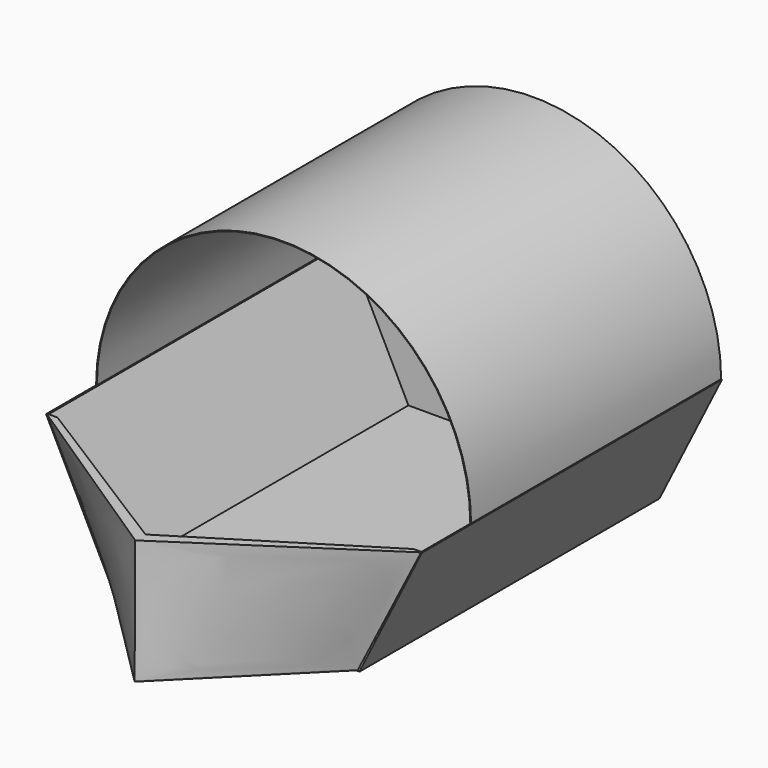
from build123d import *

# Parameters (mm, degrees)
F0_W           = 152.4
F0_H           = 152.4
F1_DEPTH       = 63.5
F3_DEPTH       = 63.17996
F4_DEPTH       = 12.7
F6_DEPTH       = 609.6
F7_W           = 152.4
F7_H           = 56.7961266285
F8_DEPTH       = 0.16002
F8_DEPTH_BACK  = 0.16002
F9_W           = 152.4
F9_H           = 56.7961266285
F10_DEPTH      = 0.16002
F10_DEPTH_BACK = 0.16002
F12_DEPTH      = 0.32004
F19_DEPTH      = 127
F24_D          = 9.525
F24_DEPTH      = 38.1
F24_TIP        = 2.8615986981
F26_DEPTH      = 25.4


with BuildPart() as f1:
    # F0 (on Top) → F1 (new body)
    with BuildSketch(Plane.XY):
        with Locations((22.6197618335, 8.0124375336)):
            Rectangle(F0_W, F0_H)
    extrude(amount=F1_DEPTH)

    # F2 (on face) → F3 (cut)
    with BuildSketch(Plane.XY.offset(63.5)):
        Polygon((22.6197618335, 83.8923975336), (-53.2601981665, 83.8923975336), (-53.2601981665, -0.1986662101), (-53.2601981665, -67.8672684664), (22.6197618335, -67.8672684664), (98.4997218335, -67.8672684664), (98.4997218335, -5.9687194955), (98.4997218335, 83.8923975336), align=None)
    extrude(amount=-F3_DEPTH, mode=Mode.SUBTRACT)

    # F4 (cut): a face of the model
    f4_faces = [f1.faces().sort_by_distance(p)[0] for p in [
        (22.6197618335, 83.9969113867, 63.5),
    ]]
    extrude(f4_faces, amount=-F4_DEPTH, mode=Mode.SUBTRACT)

    # F5 (on face) → F6 (cut)
    with BuildSketch(Plane(origin=(0, 84.2124375336, 0), x_dir=(-1, 0, 0), z_dir=(0, 1, 0))):
        Polygon((-73.4197618335, 0), (-98.8197618335, 50.8), (-98.8197618335, 0), align=None)
        Polygon((53.5802381665, 0), (53.5802381665, 50.8), (28.1802381665, 0), align=None)
    extrude(amount=-F6_DEPTH, mode=Mode.SUBTRACT)

    # F7 (on face) → F8 (join, two sides)
    with BuildSketch(Plane(origin=(58.7358094668, 0, -29.3679047334), x_dir=(0, 1, 0), z_dir=(0.894427191, 0, -0.4472135955))) as f8_sk:
        with Locations((8.0124375336, 61.2323789846)):
            Rectangle(F7_W, F7_H)
    extrude(amount=-F8_DEPTH)
    extrude(f8_sk.sketch, amount=F8_DEPTH_BACK)

    # F9 (on face) → F10 (join, two sides)
    with BuildSketch(Plane(origin=(-22.5441905332, 0, -11.2720952666), x_dir=(0, -1, 0), z_dir=(-0.894427191, 0, -0.4472135955))) as f10_sk:
        with Locations((-8.0124375336, 41.0006489467)):
            Rectangle(F9_W, F9_H)
    extrude(amount=F10_DEPTH)
    extrude(f10_sk.sketch, amount=-F10_DEPTH_BACK)

    # F11 (on face) → F12 (join)
    with BuildSketch(Plane.XY.offset(0.32004)):
        Polygon((73.4008740347, -67.8672684664), (-28.1613503676, -67.8672684664), (22.6197618335, -118.6483806675), align=None)
    extrude(amount=F12_DEPTH)

    # F13 (on face) → F14 section 0
    with BuildSketch(Plane.XY.offset(50.8)):
        Polygon((98.6408540347, -68.1875624664), (-53.4013303676, -68.1875624664), (22.6690676063, -118.3943599463), align=None)
    # F12_face (on face) → F14 section 1
    with BuildSketch(Plane(origin=(22.6197618335, -85.0078352001, 0.64008), x_dir=(1, 0, 0), z_dir=(0, 0, 1))):
        Polygon((-50.4608182011, 16.8202727337), (0, -33.6405454674), (50.4608182011, 16.8202727337), align=None)
    loft()

    # F18 (on face) → F19 (join)
    with BuildSketch(Plane(origin=(0, 84.2124375336, 0), x_dir=(-1, 0, 0), z_dir=(0, 1, 0))):
        with BuildLine():
            Line((53.4371119273, 50.8715631196), (53.7233644056, 50.7284368804))
            ThreePointArc((53.7233644056, 50.7284368804), (-22.4229632548, 126.9463276603), (-98.6408540347, 50.8))
            Line((-98.6408540347, 50.8), (-98.3208140347, 50.8))
            ThreePointArc((-98.3208140347, 50.8), (-22.464787963, 126.6661203454), (53.4114253128, 50.8201898905))
            Line((53.4114253128, 50.8201898905), (53.4371119273, 50.8715631196))
        make_face()
    extrude(amount=-F19_DEPTH)

    # F15 (on face) → F20 section 0
    with BuildSketch(Plane.XY.offset(50.8)):
        Polygon((-49.3224896491, -67.8672684664), (22.6690676063, -113.2092401385), (95.3528803221, -67.8672684664), align=None)
    # F17 (on offset) → F20 section 1
    with BuildSketch(Plane(origin=(0, 0, 2.54), x_dir=(1, 0, 0), z_dir=(0, 0, -1))):
        Polygon((23.141015321, 113.2561042905), (-28.1210406962, 67.4263015389), (71.8552097678, 67.4263015389), align=None)
    loft(mode=Mode.SUBTRACT)

    # F24
    with Locations(Plane(origin=(0, 84.2124375336, 0), x_dir=(-1, 0, 0), z_dir=(0, 1, 0))):
        with Locations((-36.7363579571, 12.5697767362)):
            Hole(F24_D / 2, depth=F24_DEPTH)
            with Locations((0, 0, -(F24_DEPTH + F24_TIP / 2))):  # 118° drill point
                Cone(0, F24_D / 2, F24_TIP, mode=Mode.SUBTRACT)

    # F25 (on face) → F26 (cut)
    with BuildSketch(Plane(origin=(0, 84.2124375336, 0), x_dir=(-1, 0, 0), z_dir=(0, 1, 0))):
        with BuildLine():
            ThreePointArc((-16.1407376707, 12.6165375113), (-11.3782376707, 7.8540375113), (-6.6157376707, 12.6165375113))
            ThreePointArc((-6.6157376707, 12.6165375113), (-11.3782376707, 17.3790375113), (-16.1407376707, 12.6165375113))
        make_face()
    extrude(amount=-F26_DEPTH, mode=Mode.SUBTRACT)


solid = f1.part
